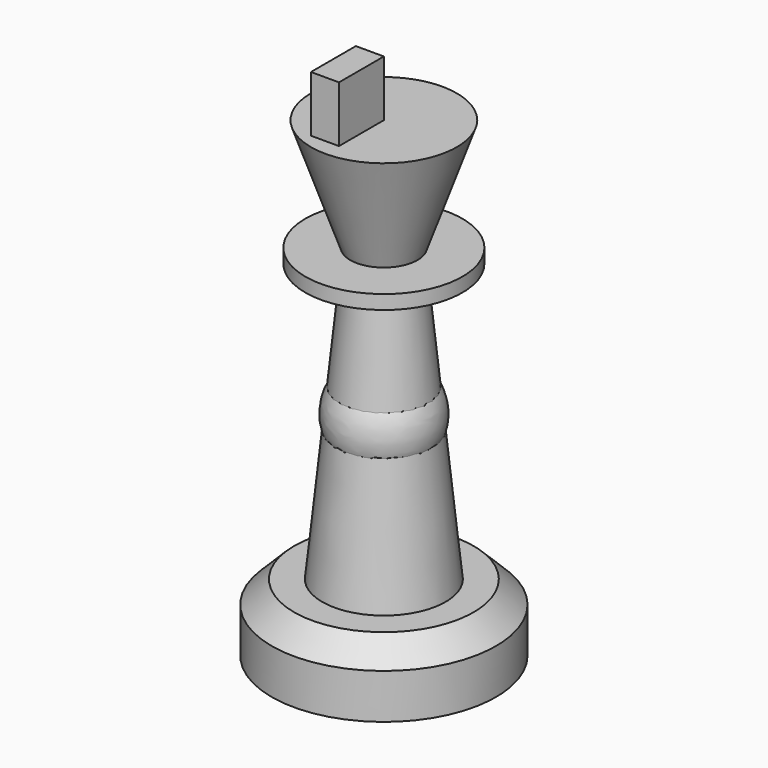
from build123d import *

# Parameters (mm, degrees)
SKETCH005_W = 5
SKETCH005_H = 10
PAD_DEPTH   = 10


with BuildPart() as body:
    # Sketch → Revolution (revolve)
    with BuildSketch(Plane.XZ):
        with BuildLine():
            Line((0, 0), (-12, 0))
            Line((-12, 0), (-12, 3))
            Line((-12, 3), (-10.450144, 5))
            ThreePointArc((-9.712861, 11.776478), (-11.976533, 8.594419), (-10.450144, 5))
            Line((-9.712861, 11.776478), (-9.712861, 12.776478))
            ThreePointArc((-7.90195, 14.474369), (-9.387799, 14.244451), (-9.712861, 12.776478))
            ThreePointArc((-7.90195, 14.474369), (-3.488635, 20.516044), (-6, 27.563897))
            ThreePointArc((-5.14683, 30.576098), (-6.29997, 29.275786), (-6, 27.563897))
            ThreePointArc((0, 46.959197), (-8.586265, 40.656613), (-5.14683, 30.576098))
            Line((0, 40.000004), (0, 46.959197))
            Line((0, 40.000004), (0, 0))
        make_face()
    revolve(axis=Axis((0, 0, 0), (0, 0, 1)))


with BuildPart() as body001:
    # Sketch003 → Revolution001 (revolve)
    with BuildSketch(Plane.XZ):
        Polygon((0, 0), (-20, 0), (-20, 8), (-16, 12), (-11, 12), (-6, 61.5), (-14, 61.5), (-14, 64), (-6, 64), (-13, 84), (0, 84), align=None)
    revolve(axis=Axis((0, 0, 0), (0, 0, 1)))

    # Sketch005 (on Face10 of Revolution001) → Pad (new body)
    with BuildSketch(Plane(origin=(0, 0, 84), x_dir=(-1, 0, 0), z_dir=(0, 0, 1))):
        with Locations((2.5, 5)):
            Rectangle(SKETCH005_W, SKETCH005_H)
    extrude(amount=PAD_DEPTH)


solid = Compound([body.part, body001.part])
